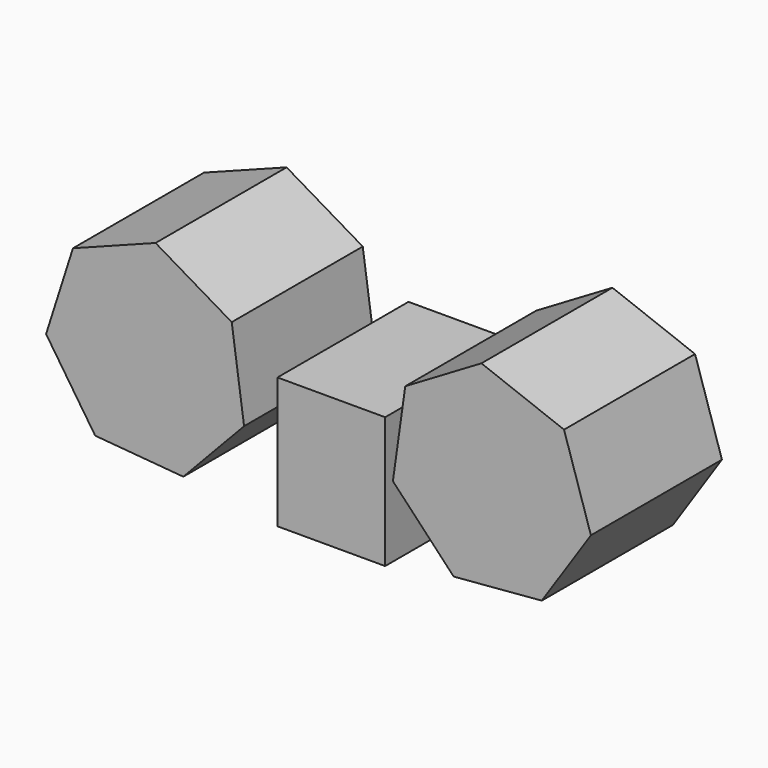
from build123d import *

# Parameters (mm, degrees)
F0_W     = 83.509393
F0_H     = 101.625185
F1_DEPTH = 127


with BuildPart() as f1:
    # F0 (on Front) → F1 (new body)
    with BuildSketch(Plane.XZ):
        Polygon((-211.248235, 28.512936), (-173.160061, -28.512936), (-104.82785, -34.289453), (-57.707151, 15.533221), (-67.280811, 83.437597), (-126.339669, 118.290294), (-190.4112, 93.84652), align=None)
        with Locations((9.9416, 6.406809)):
            Rectangle(F0_W, F0_H)
        Polygon((211.248235, 28.512936), (190.4112, 93.84652), (126.339669, 118.290294), (67.280811, 83.437597), (57.707151, 15.533221), (104.82785, -34.289453), (173.160061, -28.512936), align=None)
    extrude(amount=F1_DEPTH)


solid = f1.part
